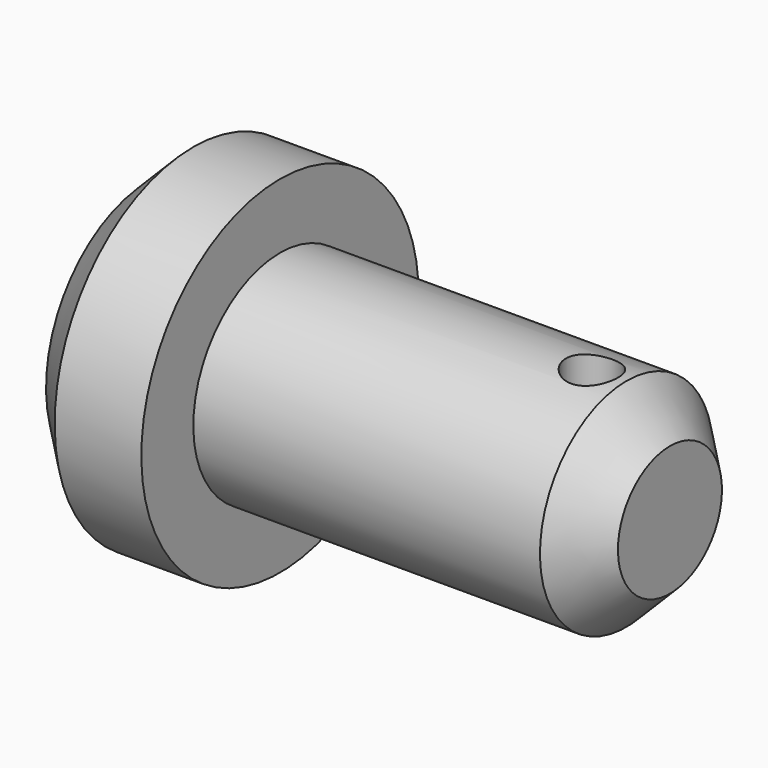
from build123d import *

# Parameters (mm, degrees)
F2_SIZE2      = 10
F2_SIZE       = 10
F3_SIZE2      = 10
F3_SIZE       = 10
F5_DEPTH      = 40.001
F5_DEPTH_BACK = 40.001


with BuildPart() as f1:
    # F0 (on Front) → F1 (revolve)
    with BuildSketch(Plane.XZ):
        Polygon((0, 40), (0, 0), (120, 0), (120, 25), (30, 25), (30, 40), align=None)
    revolve(axis=Axis((60, 0, 0), (-1, 0, 0)))

    # F2
    f2_edges = [f1.edges().sort_by_distance(p)[0] for p in [
        (0, 0, -40),
    ]]
    chamfer(f2_edges, length=F2_SIZE, length2=F2_SIZE2)

    # F3
    f3_edges = [f1.edges().sort_by_distance(p)[0] for p in [
        (120, 0, -25),
    ]]
    chamfer(f3_edges, length=F3_SIZE, length2=F3_SIZE2)

    # F4 (on Top) → F5 (cut, two sides)
    with BuildSketch(Plane.XY) as f5_sk:
        with BuildLine():
            ThreePointArc((96, 0), (102, -6), (108, 0))
            ThreePointArc((108, 0), (102, 6), (96, 0))
        make_face()
    extrude(amount=-F5_DEPTH, mode=Mode.SUBTRACT)
    extrude(f5_sk.sketch, amount=F5_DEPTH_BACK, mode=Mode.SUBTRACT)


solid = f1.part
